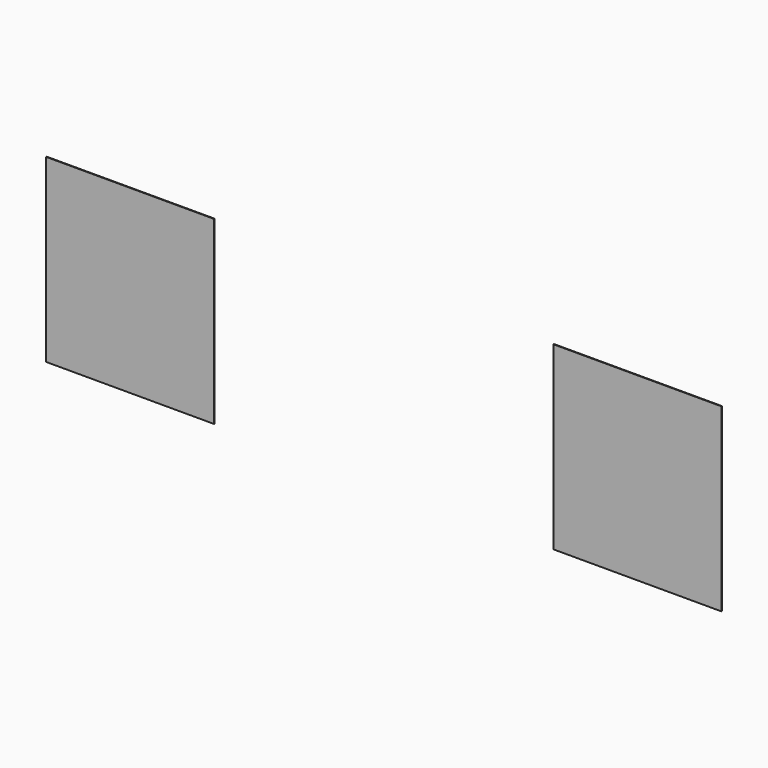
from build123d import *

# Parameters (mm, degrees)
F1_W     = 278.1066
F1_H     = 298.62263
F2_DEPTH = 1


with BuildPart() as f2:
    # F1 (on offset) → F2 (new body)
    with BuildSketch(Plane.XZ.offset(15)):
        with Locations((419.552192, 184.691269)):
            Rectangle(F1_W, F1_H)
    extrude(amount=F2_DEPTH)


with BuildPart() as f3_1:
    # F3: instance of F2
    add(f2.part.mirror(Plane.YZ))


solid = Compound([f2.part, f3_1.part])
